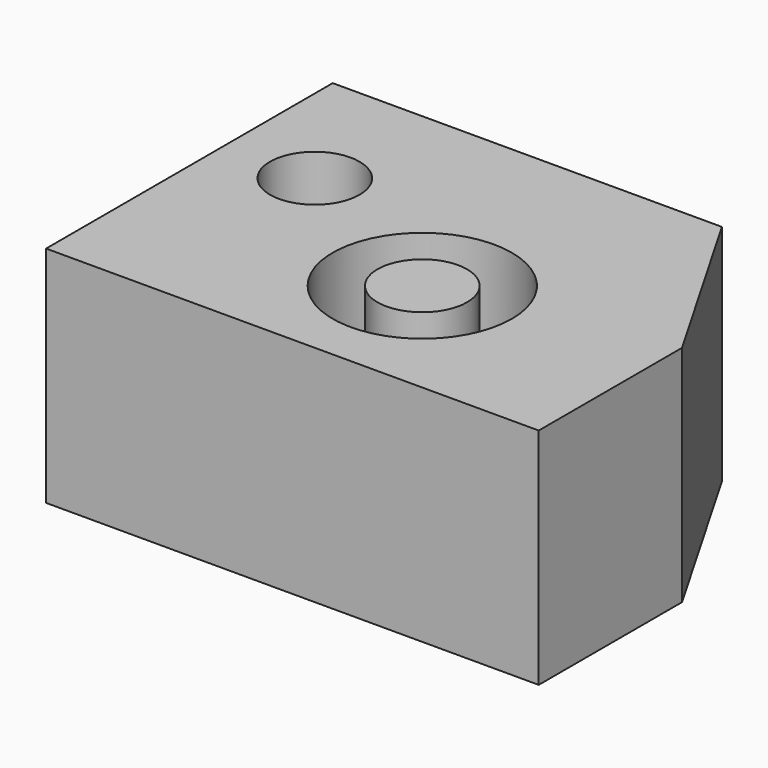
from build123d import *

# Parameters (mm, degrees)
F0_R     = 10
F0_R_2   = 5
F1_DEPTH = 25


with BuildPart() as f1:
    # F0 (on Top) → F1 (new body)
    with BuildSketch(Plane.XY):
        Polygon((15.939544, 11.584883), (-27.51345, 11.584883), (-27.51345, -28.415117), (27.48655, -28.415117), (27.48655, -8.415117), align=None)
        with Locations((2.48655, -13.415117)):
            Circle(F0_R, mode=Mode.SUBTRACT)
        with Locations((-17.51345, -3.415117)):
            Circle(F0_R_2, mode=Mode.SUBTRACT)
        with Locations((2.48655, -13.415117)):
            Circle(F0_R_2)
    extrude(amount=F1_DEPTH)


solid = f1.part
